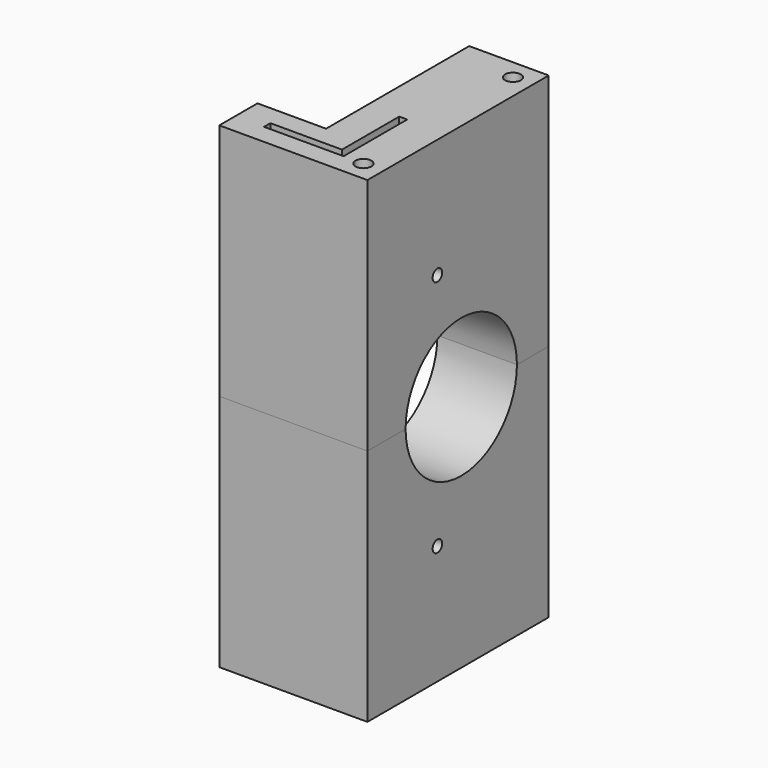
from build123d import *

# Parameters (mm, degrees)
F0_R     = 2
F1_DEPTH = 60
F2_R     = 1.5
F2_R_2   = 17.5
F3_DEPTH = 20.001


with BuildPart() as f1:
    # F0 (on Top) → F1 (new body)
    with BuildSketch(Plane.XY):
        Polygon((0, 36.483967), (-20, 36.483967), (-20, -8.516033), (-37.267761, -8.516033), (-37.267761, -20.516033), (0, -20.516033), align=None)
        Polygon((-10, -15.516033), (-30, -15.516033), (-30, -13.516033), (-12, -13.516033), (-12, 4.483967), (-10, 4.483967), align=None, mode=Mode.SUBTRACT)
        with Locations((-5, -15.516033)):
            Circle(F0_R, mode=Mode.SUBTRACT)
        with Locations((-5, 31.483967)):
            Circle(F0_R, mode=Mode.SUBTRACT)
    extrude(amount=F1_DEPTH)

    # F2 (on face) → F3 (cut, through all)
    with BuildSketch(Plane(origin=(-20, 0, 0), x_dir=(0, -1, 0), z_dir=(-1, 0, 0))):
        with Locations((-1.483967, 30)):
            Circle(F2_R)
        with Locations((-8.983967, 0)):
            Circle(F2_R_2)
    extrude(amount=-F3_DEPTH, mode=Mode.SUBTRACT)


with BuildPart() as f4_1:
    # F4: instance of F1
    add(f1.part.mirror(Plane.XY))


solid = Compound([f1.part, f4_1.part])
